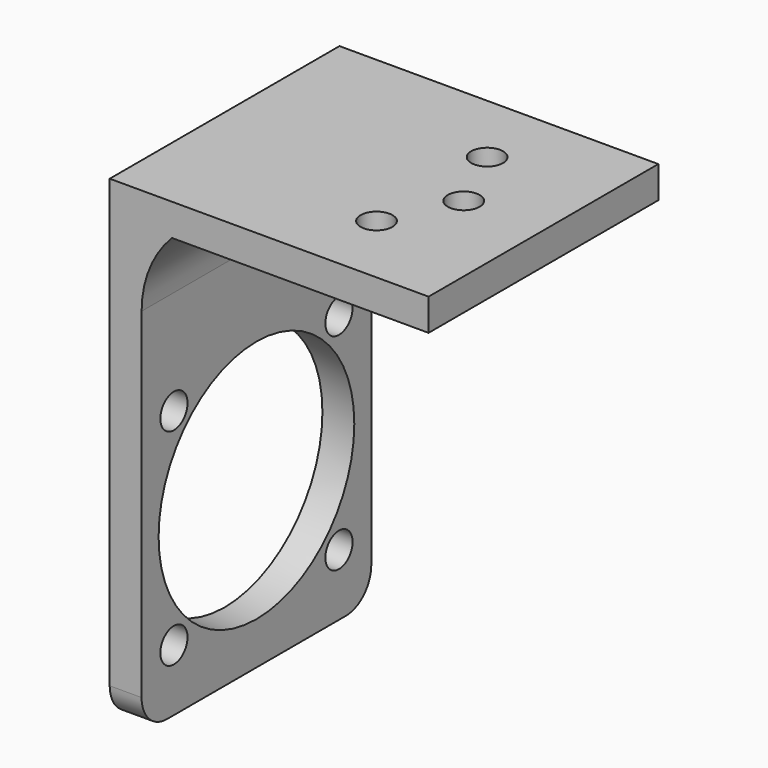
from build123d import *

# Parameters (mm, degrees)
SKETCH103_W             = 27
SKETCH103_H             = 27
SKETCH103_R             = 1.5
PAD047_DEPTH            = 3
SKETCH102_R             = 11.5
SKETCH102_R_2           = 1.6
PAD048_DEPTH            = 3
PAD049_DEPTH            = 27
BODY011_ROLL_ANGLE      = -89.982677
BODY011_PITCH_ANGLE     = -0.017318
BODY011_PLACEMENT_ANGLE = 89.982677


with BuildPart() as part:
    # Sketch103 → Pad047 (new body)
    with BuildSketch(Plane.XZ):
        with Locations((13.5, -13.5)):
            Rectangle(SKETCH103_W, SKETCH103_H)
        with Locations((7, -16.5)):
            Circle(SKETCH103_R, mode=Mode.SUBTRACT)
        with Locations((13.5, -19.5)):
            Circle(SKETCH103_R, mode=Mode.SUBTRACT)
        with Locations((20, -16.5)):
            Circle(SKETCH103_R, mode=Mode.SUBTRACT)
    extrude(amount=-PAD047_DEPTH)

    # Sketch102 → Pad048 (join)
    with BuildSketch(Plane.XY):
        with BuildLine():
            Line((0, 42), (0, 0))
            Line((0, 0), (27, 0))
            Line((27, 0), (27, 42))
            ThreePointArc((27, 42), (26.12132, 44.12132), (24, 45))
            Line((24, 45), (3, 45))
            ThreePointArc((3, 45), (0.87868, 44.12132), (0, 42))
        make_face()
        with Locations((13.5, 29.5)):
            Circle(SKETCH102_R, mode=Mode.SUBTRACT)
        with Locations((3.8, 39.2)):
            Circle(SKETCH102_R_2, mode=Mode.SUBTRACT)
        with Locations((23.2, 39.2)):
            Circle(SKETCH102_R_2, mode=Mode.SUBTRACT)
        with Locations((23.2, 19.8)):
            Circle(SKETCH102_R_2, mode=Mode.SUBTRACT)
        with Locations((3.8, 19.8)):
            Circle(SKETCH102_R_2, mode=Mode.SUBTRACT)
    extrude(amount=PAD048_DEPTH)

    # Sketch104 → Pad049 (join)
    with BuildSketch(Plane.YZ):
        with BuildLine():
            ThreePointArc((10, 0), (2.928931, -2.928933), (0, -10.000003))
            Line((0, -10.000003), (0, 0))
            Line((10, 0), (0, 0))
        make_face()
    extrude(amount=PAD049_DEPTH)


with BuildPart() as part_1:
    # Body011 roll: moved
    add(part.part.rotate(Axis((0, 0, 0), (1, 0, 0)), BODY011_ROLL_ANGLE))


with BuildPart() as part_2:
    # Body011 pitch: moved
    add(part_1.part.rotate(Axis((0, 0, 0), (0, 1, 0)), BODY011_PITCH_ANGLE))


with BuildPart() as part_3:
    # Body011 placement: moved
    add(part_2.part.moved(Location((-70, 7, 0))).rotate(Axis((-70, 7, 0), (0, 0, 1)), BODY011_PLACEMENT_ANGLE))


solid = part_3.part
